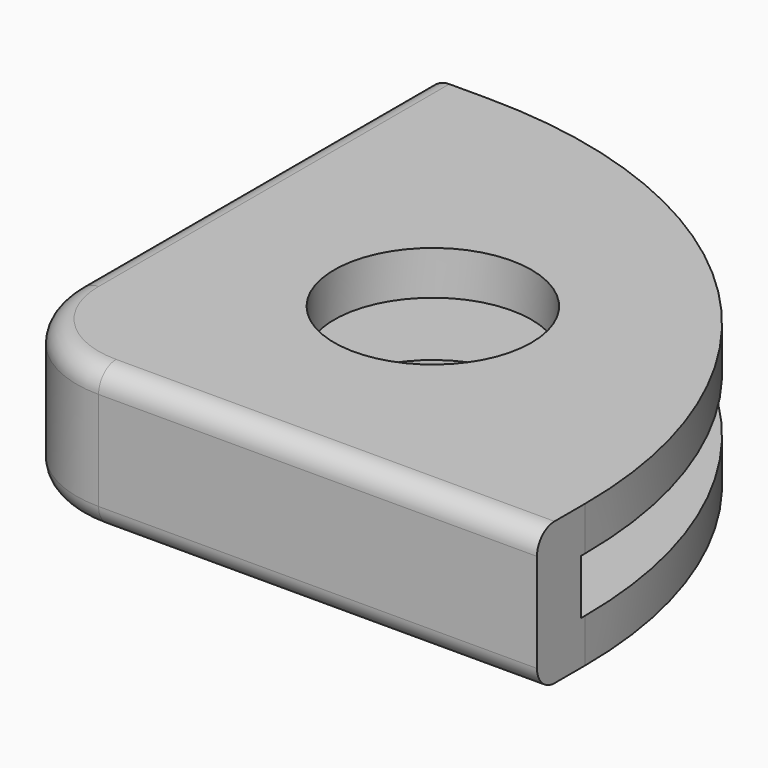
from build123d import *

# Parameters (mm, degrees)
F0_W     = 2.5
F0_H     = 22.25
F0_R     = 4.5
F0_W_2   = 22.5
F0_H_2   = 2.5
F1_DEPTH = 2
F2_DEPTH = 2.5
F3_W     = 2.5
F3_H     = 22.5
F3_R     = 4.5
F3_H_2   = 2.5
F3_W_2   = 22.5
F4_DEPTH = 2
F5_R     = 5
F6_R     = 1


with BuildPart() as f1:
    # F0 (on Top) → F1 (new body)
    with BuildSketch(Plane.XY):
        Polygon((-0.25, -0.25), (-0.25, 0), (-2.75, 0), (-2.75, -2.75), (-0.25, -2.75), align=None)
        with Locations((-1.5, 11.125)):
            Rectangle(F0_W, F0_H)
        with BuildLine():
            Line((-0.25, 22.25), (-0.25, 0))
            Line((-0.25, 0), (-0.25, -0.25))
            Line((-0.25, -0.25), (22.25, -0.25))
            Line((22.25, -0.25), (22.25, 0))
            ThreePointArc((22.25, 0), (15.7331258814, 15.7331258814), (0, 22.25))
            Line((0, 22.25), (-0.25, 22.25))
        make_face()
        with Locations((8.5, 8.5)):
            Circle(F0_R, mode=Mode.SUBTRACT)
        with Locations((11, -1.5)):
            Rectangle(F0_W_2, F0_H_2)
    extrude(amount=-F1_DEPTH)

    # F0 (on Top) → F2 (join)
    with BuildSketch(Plane.XY):
        with Locations((-1.5, 11.125)):
            Rectangle(F0_W, F0_H)
        Polygon((-0.25, -0.25), (-0.25, 0), (-2.75, 0), (-2.75, -2.75), (-0.25, -2.75), align=None)
        with Locations((11, -1.5)):
            Rectangle(F0_W_2, F0_H_2)
    extrude(amount=F2_DEPTH)

    # F3 (on face) → F4 (join)
    with BuildSketch(Plane.XY.offset(2.5)):
        with Locations((-1.5, 11)):
            Rectangle(F3_W, F3_H)
        with BuildLine():
            Line((0, 22.25), (-0.25, 22.25))
            Line((-0.25, 22.25), (-0.25, -0.25))
            Line((-0.25, -0.25), (22.25, -0.25))
            Line((22.25, -0.25), (22.25, 0))
            ThreePointArc((22.25, 0), (15.7331258814, 15.7331258814), (0, 22.25))
        make_face()
        with Locations((8.5, 8.5)):
            Circle(F3_R, mode=Mode.SUBTRACT)
        with Locations((-1.5, -1.5)):
            Rectangle(F3_W, F3_H_2)
        with Locations((11, -1.5)):
            Rectangle(F3_W_2, F3_H_2)
    extrude(amount=F4_DEPTH)

    # F5
    f5_edges = [f1.edges().sort_by_distance(p)[0] for p in [
        (-2.75, -2.75, 1.25),
    ]]
    fillet(f5_edges, radius=F5_R)

    # F6
    f6_edges = [f1.edges().sort_by_distance(p)[0] for p in [
        (12.25, -2.75, 4.5),
        (12.25, -2.75, -2),
        (-1.285534, -1.285534, -2),
    ]]
    fillet(f6_edges, radius=F6_R)


solid = f1.part
